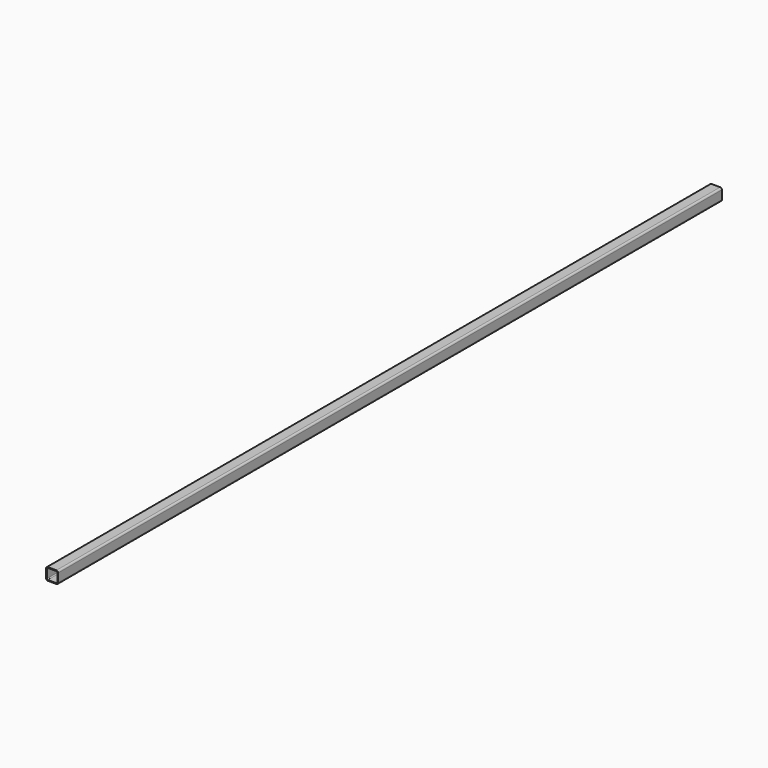
from build123d import *

# Parameters (mm, degrees)
F1_DEPTH      = 1524
F1_DEPTH_BACK = 1524
F3_DEPTH      = 3048.001


with BuildPart() as f1:
    # F0 (on Front) → F1 (new body, two sides)
    with BuildSketch(Plane.XZ) as f1_sk:
        with BuildLine():
            Line((-15.875, -22.225), (15.875, -22.225))
            ThreePointArc((15.875, -22.225), (20.3651280605, -20.3651280605), (22.225, -15.875))
            Line((22.225, -15.875), (22.225, 15.875))
            ThreePointArc((22.225, 15.875), (20.3651280605, 20.3651280605), (15.875, 22.225))
            Line((15.875, 22.225), (-15.875, 22.225))
            ThreePointArc((-15.875, 22.225), (-20.3651280605, 20.3651280605), (-22.225, 15.875))
            Line((-22.225, 15.875), (-22.225, -15.875))
            ThreePointArc((-22.225, -15.875), (-20.3651280605, -20.3651280605), (-15.875, -22.225))
        make_face()
    extrude(amount=-F1_DEPTH)
    extrude(f1_sk.sketch, amount=F1_DEPTH_BACK)

    # F2 (on face) → F3 (cut, through all)
    with BuildSketch(Plane.XZ.offset(1524)):
        with BuildLine():
            Line((-16.2814, -19.4564), (16.2814, -19.4564))
            ThreePointArc((16.2814, -19.4564), (18.5264640303, -18.5264640303), (19.4564, -16.2814))
            Line((19.4564, -16.2814), (19.4564, 16.2814))
            ThreePointArc((19.4564, 16.2814), (18.5264640303, 18.5264640303), (16.2814, 19.4564))
            Line((16.2814, 19.4564), (-16.2814, 19.4564))
            ThreePointArc((-16.2814, 19.4564), (-18.5264640303, 18.5264640303), (-19.4564, 16.2814))
            Line((-19.4564, 16.2814), (-19.4564, -16.2814))
            ThreePointArc((-19.4564, -16.2814), (-18.5264640303, -18.5264640303), (-16.2814, -19.4564))
        make_face()
    extrude(amount=-F3_DEPTH, mode=Mode.SUBTRACT)


solid = f1.part
